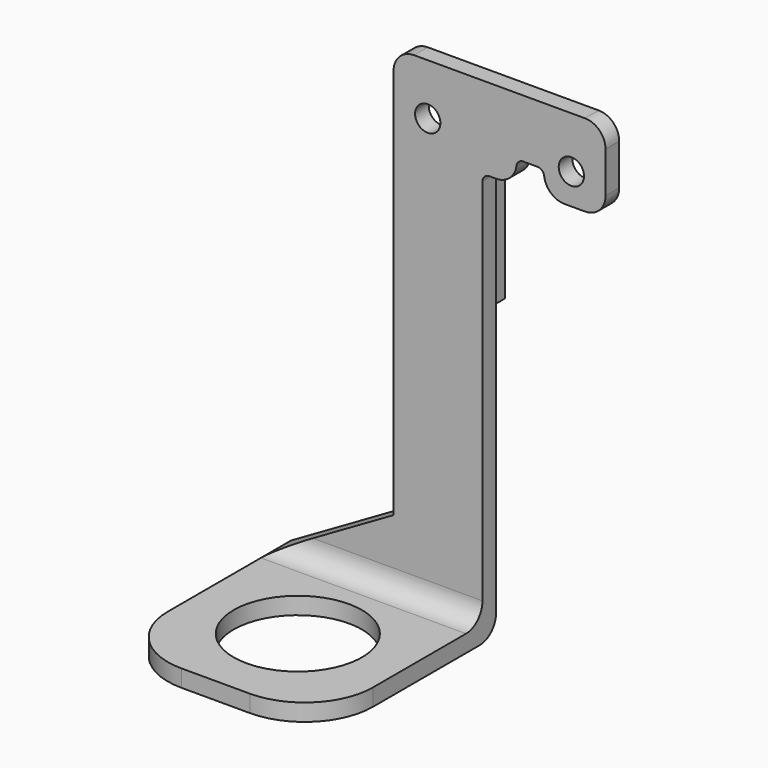
from build123d import *

# Parameters (mm, degrees)
F0_W     = 10.3
F0_H     = 20
F0_W_2   = 2.7
F1_DEPTH = 2.5
F2_DEPTH = 32.5
F4_D     = 18.75
F5_D     = 3.7
F6_DEPTH = 5
F7_SIZE2 = 9
F7_SIZE  = 5
F8_R     = 10
F9_R     = 3
F10_R    = 1


with BuildPart() as f1:
    # F0 (on Front) → F1 (new body)
    with BuildSketch(Plane.XZ):
        Polygon((13.0521883406, 19.9863334329), (-17.9478116594, 19.9863334329), (-17.9478116594, 7.9863334329), (-7.6478116594, 7.9863334329), (-4.9478116594, 7.9863334329), (0.0521883406, 7.9863334329), (0.0521883406, 11.4863334329), (4.0521883406, 11.4863334329), (4.0521883406, 7.9863334329), (13.0521883406, 7.9863334329), align=None)
        Polygon((13.0521883406, 19.9863334329), (-17.9478116594, 19.9863334329), (-17.9478116594, 7.9863334329), (-7.6478116594, 7.9863334329), (-4.9478116594, 7.9863334329), (0.0521883406, 7.9863334329), (0.0521883406, 11.4863334329), (4.0521883406, 11.4863334329), (4.0521883406, 7.9863334329), (13.0521883406, 7.9863334329), align=None)
        Polygon((-17.9478116594, -50.0136665671), (-17.9478116594, -40.1987119909), (-34.9478116594, -50.0136665671), align=None)
        with Locations((-12.7978116594, -2.0136665671)):
            Rectangle(F0_W, F0_H)
        with Locations((-6.2978116594, -2.0136665671)):
            Rectangle(F0_W_2, F0_H)
        Polygon((-7.6478116594, -12.0136665671), (-17.9478116594, -12.0136665671), (-17.9478116594, -40.1987119909), (-17.9478116594, -50.0136665671), (-4.9478116594, -50.0136665671), (-4.9478116594, -12.0136665671), align=None)
        with Locations((-12.7978116594, -2.0136665671)):
            Rectangle(F0_W, F0_H)
    extrude(amount=F1_DEPTH)

    # F0 (on Front) → F2 (join)
    with BuildSketch(Plane.XZ):
        Polygon((-4.9478116594, -50.0136665671), (-17.9478116594, -50.0136665671), (-34.9478116594, -50.0136665671), (-34.9478116594, -52.5136665671), (-4.9478116594, -52.5136665671), align=None)
    extrude(amount=F2_DEPTH)

    # F4 (through all)
    with Locations(Plane.XY):
        with Locations((-19.9478116594, -17.5)):
            Hole(F4_D / 2)

    # F5 (through all)
    with Locations(Plane(origin=(0, 0, 0), x_dir=(1, 0, 0), z_dir=(0, 1, 0))):
        with Locations((-12.9478116594, -12.4863334329), (8.0521883406, -12.4863334329)):
            Hole(F5_D / 2)

    # F0 (on Front) → F6 (join)
    with BuildSketch(Plane.XZ):
        with Locations((-12.7978116594, -2.0136665671)):
            Rectangle(F0_W, F0_H)
    extrude(amount=-F6_DEPTH)

    # F7
    f7_edges = [f1.edges().sort_by_distance(p)[0] for p in [
        (-17.947812, 5, -2.013667),
    ]]
    f7_side = f1.faces().sort_by_distance((-17.947812, 0.247229, -6.875159))[0]
    chamfer(f7_edges, length=F7_SIZE, length2=F7_SIZE2, reference=f7_side)

    # F8
    f8_edges = [f1.edges().sort_by_distance(p)[0] for p in [
        (-4.947812, -32.5, -51.263667),
        (-34.947812, -32.5, -51.263667),
    ]]
    fillet(f8_edges, radius=F8_R)

    # F9
    f9_edges = [f1.edges().sort_by_distance(p)[0] for p in [
        (-17.947812, -1.25, 19.986333),
        (13.052188, -1.25, 19.986333),
        (0.052188, -1.25, 7.986333),
        (4.052188, -1.25, 7.986333),
        (13.052188, -1.25, 7.986333),
        (-19.947812, 0, -52.513667),
        (-19.947812, -2.5, -50.013667),
    ]]
    fillet(f9_edges, radius=F9_R)

    # F10
    f10_edges = [f1.edges().sort_by_distance(p)[0] for p in [
        (0.052188, -1.25, 11.486333),
        (4.052188, -1.25, 11.486333),
        (-4.947812, -1.25, 7.986333),
    ]]
    fillet(f10_edges, radius=F10_R)


solid = f1.part
